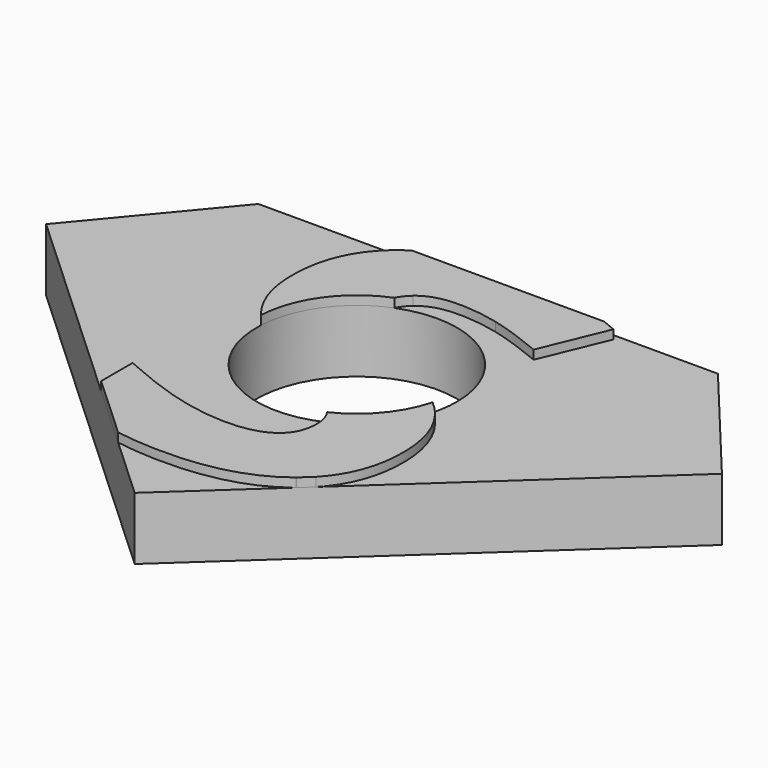
from build123d import *

# Parameters (mm, degrees)
F0_R     = 11.2
F1_DEPTH = 7
F3_DEPTH = 1


with BuildPart() as f1:
    # F0 (on Top) → F1 (new body)
    with BuildSketch(Plane.XY):
        Polygon((25.6720134951, 14.5481945947), (-25.6720134951, 14.5481945947), (-37.758209943, 0), (0, -34.8202470113), (37.758209943, 0), align=None)
        with Locations((0, -3.7951807026)):
            Circle(F0_R, mode=Mode.SUBTRACT)
    extrude(amount=F1_DEPTH)

    # F2 (on face) → F3 (join)
    with BuildSketch(Plane.XY.offset(7)):
        with BuildLine():
            add(Edge.make_bspline(
                [(14.7238187039, -15.7416694783), (14.7238187039, -20.8010980146), (11.6681145092, -24.0600274463)],
                knots=[0, 0, 0, 0.8391754789, 0.8391754789, 0.8391754789], degree=2))
            add(Edge.make_bspline(
                [(12.410573631, -8.3928551309), (14.7238187039, -11.3878987516), (14.7238187039, -15.7416694783)],
                knots=[0, 0, 0, 1, 1, 1], degree=2))
            add(Edge.make_bspline(
                [(10.8114000869, -6.7198393426), (11.7643435247, -7.5561572037), (12.410573631, -8.3928551309)],
                knots=[0.7206391515, 0.7206391515, 0.7206391515, 1, 1, 1], degree=2))
            ThreePointArc((10.8114000869, -6.7198393426), (8.586875435, -10.9858392444), (4.7778268514, -13.9249571353))
            add(Edge.make_bspline(
                [(5.4708384123, -16.1994485033), (5.4708384123, -14.9282205842), (4.7778268514, -13.9249571353)],
                knots=[0, 0, 0, 0.9740036675, 0.9740036675, 0.9740036675], degree=2))
            add(Edge.make_bspline(
                [(3.8101719494, -19.730190983), (5.4708384123, -18.5467835036), (5.4708384123, -16.1994485033)],
                knots=[0, 0, 0, 1, 1, 1], degree=2))
            add(Edge.make_bspline(
                [(-0.9478079163, -20.9135984624), (2.1495054866, -20.9135984624), (3.8101719494, -19.730190983)],
                knots=[0, 0, 0, 1, 1, 1], degree=2))
            add(Edge.make_bspline(
                [(-6.660305749, -20.095440205), (-3.538642398, -20.9135984624), (-0.9478079163, -20.9135984624)],
                knots=[0, 0, 0, 1, 1, 1], degree=2))
            add(Edge.make_bspline(
                [(-14.2818395155, -17.261106242), (-9.7819691, -19.2772819476), (-6.660305749, -20.095440205)],
                knots=[0, 0, 0, 1, 1, 1], degree=2))
            Line((-14.2818395155, -17.261106242), (-14.2818395155, -21.6496761485))
            Line((-14.2818395155, -21.6496761485), (-7.0797239554, -28.2913957424))
            add(Edge.make_bspline(
                [(-1.6783063604, -28.7153218451), (-4.5095721098, -28.7153218451), (-7.0797239554, -28.2913957424)],
                knots=[0, 0, 0, 0.3971106389, 0.3971106389, 0.3971106389], degree=2))
            add(Edge.make_bspline(
                [(10.3846579461, -25.2430192409), (6.0454971883, -28.7153218451), (-1.6783063604, -28.7153218451)],
                knots=[0, 0, 0, 1, 1, 1], degree=2))
            add(Edge.make_bspline(
                [(10.389586169, -25.239073611), (10.3871227576, -25.2410468384), (10.3846579461, -25.2430192409)],
                knots=[0.9994319612, 0.9994319612, 0.9994319612, 1, 1, 1], degree=2))
            Line((10.389586169, -25.239073611), (11.6681145092, -24.0600274463))
        make_face()
        with BuildLine():
            add(Edge.make_bspline(
                [(12.9648102038, 14.5481945947), (13.729785447, 14.2447942788), (14.5095391603, 13.9068273719)],
                knots=[0.7732095753, 0.7732095753, 0.7732095753, 1, 1, 1], degree=2))
            Line((12.9648102038, 14.5481945947), (-8.5649794853, 14.5481945947))
            add(Edge.make_bspline(
                [(-9.7624891415, 13.6584579009), (-9.1945173533, 14.1372954304), (-8.5649794853, 14.5481945947)],
                knots=[0, 0, 0, 0.1418818722, 0.1418818722, 0.1418818722], degree=2))
            add(Edge.make_bspline(
                [(-13.765620615, 4.3713876819), (-13.765620615, 10.2835550893), (-9.7624891415, 13.6584579009)],
                knots=[0, 0, 0, 1, 1, 1], degree=2))
            add(Edge.make_bspline(
                [(-12.5481232082, -1.102480659), (-13.765620615, 1.2448543413), (-13.765620615, 4.3713876819)],
                knots=[0, 0, 0, 1, 1, 1], degree=2))
            add(Edge.make_bspline(
                [(-11.1855575293, -3.2265835185), (-11.962161159, -2.23221549), (-12.5481232082, -1.102480659)],
                knots=[0.5187159775, 0.5187159775, 0.5187159775, 1, 1, 1], degree=2))
            ThreePointArc((-11.1855575293, -3.2265835185), (-9.1028902875, 2.7299544235), (-4.1307340981, 6.6152484822))
            add(Edge.make_bspline(
                [(-3.1100833108, 7.936220089), (-3.7746308536, 7.3575664463), (-4.1307340981, 6.6152484822)],
                knots=[0, 0, 0, 0.4641418083, 0.4641418083, 0.4641418083], degree=2))
            add(Edge.make_bspline(
                [(1.0001879346, 9.1829374336), (-1.6783063604, 9.1829374336), (-3.1100833108, 7.936220089)],
                knots=[0, 0, 0, 1, 1, 1], degree=2))
            add(Edge.make_bspline(
                [(5.5779781841, 8.6034086679), (3.2501231423, 9.1829374336), (1.0001879346, 9.1829374336)],
                knots=[0, 0, 0, 1, 1, 1], degree=2))
            add(Edge.make_bspline(
                [(11.470665633, 6.5628830141), (7.9058332259, 8.0238799023), (5.5779781841, 8.6034086679)],
                knots=[0, 0, 0, 1, 1, 1], degree=2))
            Line((11.470665633, 6.5628830141), (14.5095391603, 13.9068273719))
        make_face()
    extrude(amount=F3_DEPTH)


solid = f1.part
